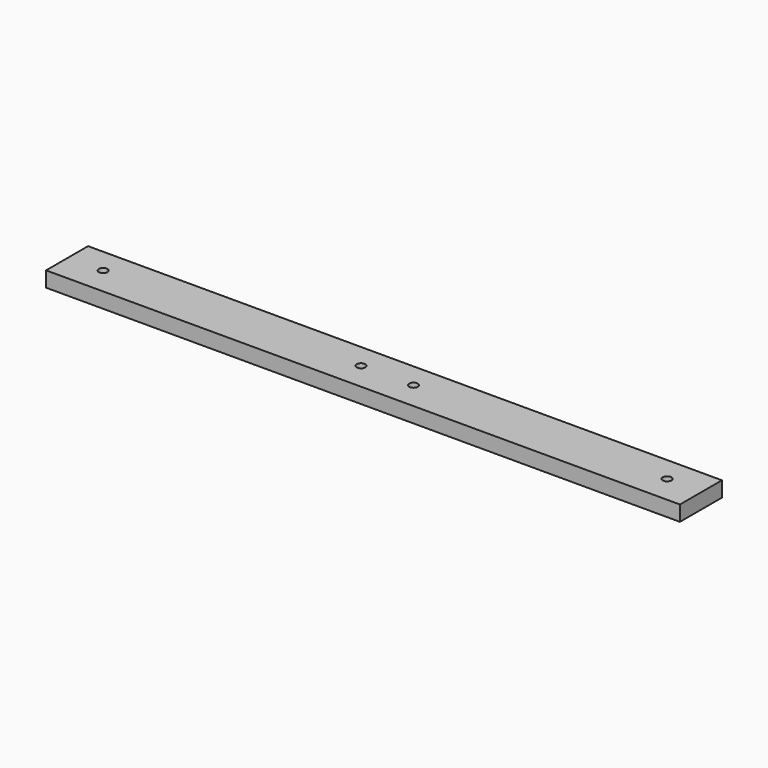
from build123d import *

# Parameters (mm, degrees)
F0_W     = 30.0721211731
F0_H     = 5.6904614212
F1_DEPTH = 3.5
F2_D     = 2


with BuildPart() as f1:
    # F0 (on Top) → F1 (new body)
    with BuildSketch(Plane.XY):
        with Locations((-54.0576568991, 24.7263458325)):
            Rectangle(F0_W, F0_H)
        Polygon((-1.8833033973, 27.5715765432), (-39.0215963125, 27.5715765432), (-39.0215963125, 21.8811151219), (-39.0215963125, 15.5715765432), (-23.1951605529, 15.5715765432), (-15.0937174857, 15.5715765432), (-1.8833033973, 15.5715765432), (-1.8833033973, 21.8811151219), align=None)
        Polygon((-39.0215963125, 21.8811151219), (-69.0937174857, 21.8811151219), (-69.0937174857, 15.5715765432), (-54.0937174857, 15.5715765432), (-46.0937174857, 15.5715765432), (-39.0215963125, 15.5715765432), align=None)
        Polygon((9.8445750773, 27.5715765432), (-1.8833033973, 27.5715765432), (-1.8833033973, 21.8811151219), (9.8738370598, 21.8811151219), align=None)
        Polygon((59.9302730291, 27.5715765432), (9.8445750773, 27.5715765432), (9.8738370598, 21.8811151219), (9.9062825143, 15.5715765432), (21.8975301832, 15.5715765432), (29.9062825143, 15.5715765432), (52.8784766793, 15.5715765432), (59.9302730291, 15.5715765432), (59.9302730291, 21.8811151219), align=None)
        Polygon((9.8738370598, 21.8811151219), (-1.8833033973, 21.8811151219), (-1.8833033973, 15.5715765432), (9.9062825143, 15.5715765432), align=None)
        Polygon((72.6376026869, 27.5715765432), (59.9302730291, 27.5715765432), (59.9302730291, 21.8811151219), (72.7650120363, 21.8811151219), align=None)
        Polygon((75.9062825143, 27.5715765432), (72.6376026869, 27.5715765432), (72.7650120363, 21.8811151219), (75.9062825143, 21.8811151219), align=None)
        Polygon((72.7650120363, 21.8811151219), (59.9302730291, 21.8811151219), (59.9302730291, 15.5715765432), (60.9062825143, 15.5715765432), (72.9062825143, 15.5715765432), align=None)
        Polygon((75.9062825143, 21.8811151219), (72.7650120363, 21.8811151219), (72.9062825143, 15.5715765432), (75.9062825143, 15.5715765432), align=None)
    extrude(amount=F1_DEPTH)

    # F2 (through all)
    with Locations(Plane(origin=(0, 0, 0), x_dir=(1, 0, 0), z_dir=(0, 0, -1))):
        with Locations((-61.0937174857, -21.8811151219), (67.9182777717, -21.8811151219), (-2.0937174857, -21.8811151219), (9.9062825143, -21.8811151219)):
            Hole(F2_D / 2)


solid = f1.part
